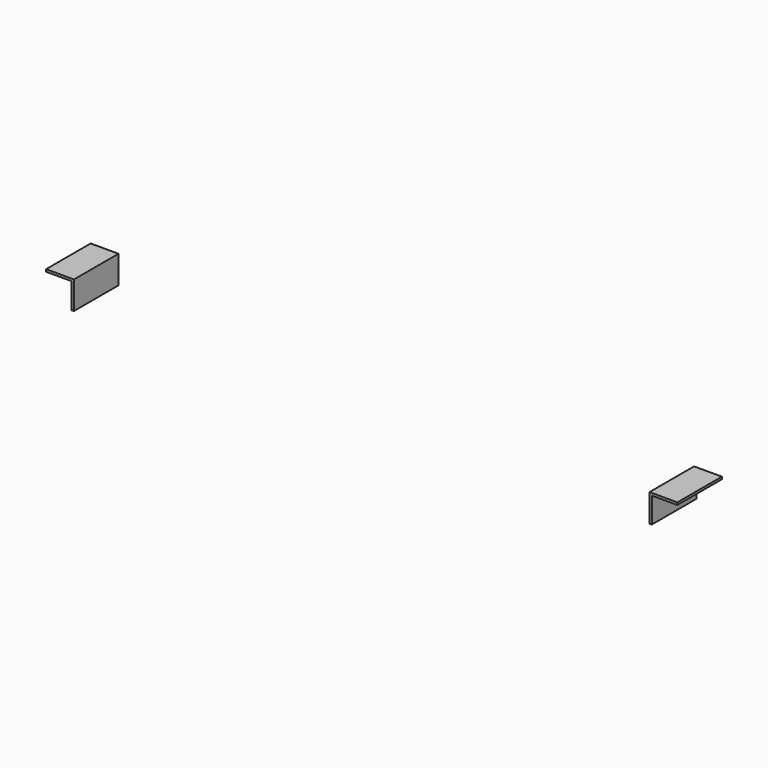
from build123d import *

# Parameters (mm, degrees)
F1_DEPTH = 76.2


with BuildPart() as f1:
    # F0 (on Front) → F1 (new body, symmetric)
    with BuildSketch(Plane.XZ):
        Polygon((-787.4, 0), (-863.6, 0), (-863.6, -6.35), (-793.75, -6.35), (-793.75, -76.2), (-787.4, -76.2), align=None)
        Polygon((787.4, -76.2), (793.75, -76.2), (793.75, -6.35), (863.6, -6.35), (863.6, 0), (787.4, 0), align=None)
    extrude(amount=F1_DEPTH, both=True)


solid = f1.part
